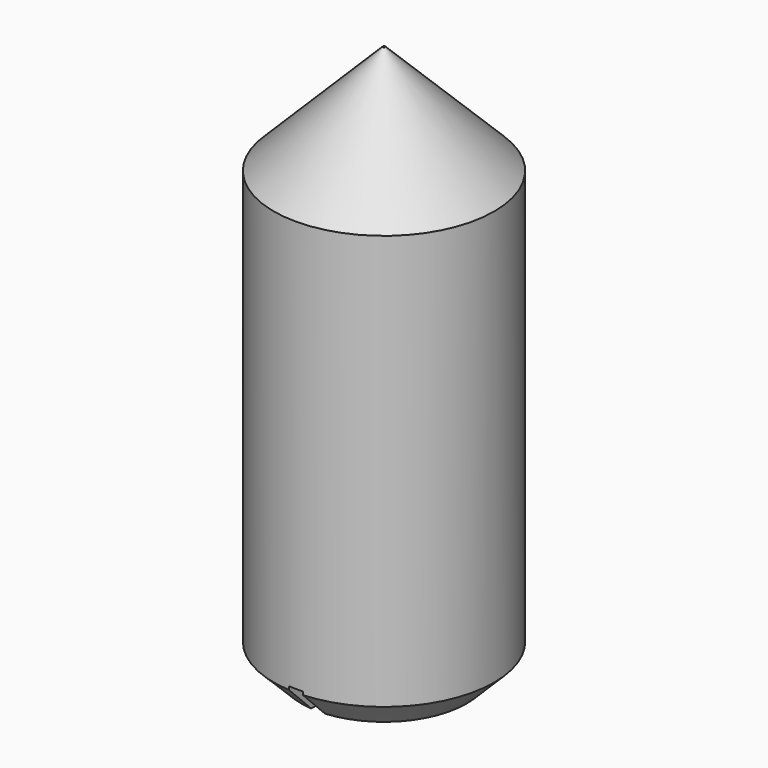
from build123d import *

# Parameters (mm, degrees)
F0_R     = 2
F1_DEPTH = 10
F4_SIZE  = 0.5
F6_DEPTH = 0.56


with BuildPart() as f1:
    # F0 (on Top) → F1 (new body)
    with BuildSketch(Plane.XY):
        Circle(F0_R)
    extrude(amount=F1_DEPTH)

    # F2 (on Right) → F3 (revolve, cut)
    with BuildSketch(Plane.YZ):
        Polygon((0, 10.2037759498), (-2.4595215172, 10.2037759498), (-2.4595215172, 7.5622705054), (0, 10.0217920226), align=None)
    revolve(axis=Axis((0, 0, 10.1127839862), (0, 0, -1)), mode=Mode.SUBTRACT)

    # F4
    f4_edges = [f1.edges().sort_by_distance(p)[0] for p in [
        (-2, 0, 0),
    ]]
    chamfer(f4_edges, length=F4_SIZE)

    # F5 (on face) → F6 (cut)
    with BuildSketch(Plane(origin=(0, 0, 0), x_dir=(1, 0, 0), z_dir=(0, 0, -1))):
        with BuildLine():
            ThreePointArc((-0.125, 1.4947825929), (0, 1.5), (0.125, 1.4947825929))
            Line((0.125, 1.4947825929), (0.125, 2.363476136))
            Line((0.125, 2.363476136), (-0.125, 2.363476136))
            Line((-0.125, 2.363476136), (-0.125, 1.4947825929))
        make_face()
        with BuildLine():
            ThreePointArc((-0.125, -1.4947825929), (0, -1.5), (0.125, -1.4947825929))
            Line((0.125, -1.4947825929), (0.125, 1.4947825929))
            ThreePointArc((0.125, 1.4947825929), (0, 1.5), (-0.125, 1.4947825929))
            Line((-0.125, 1.4947825929), (-0.125, -1.4947825929))
        make_face()
        with BuildLine():
            Line((-0.125, -2.363476136), (0.125, -2.363476136))
            Line((0.125, -2.363476136), (0.125, -1.4947825929))
            ThreePointArc((0.125, -1.4947825929), (0, -1.5), (-0.125, -1.4947825929))
            Line((-0.125, -1.4947825929), (-0.125, -2.363476136))
        make_face()
    extrude(amount=-F6_DEPTH, mode=Mode.SUBTRACT)


solid = f1.part
